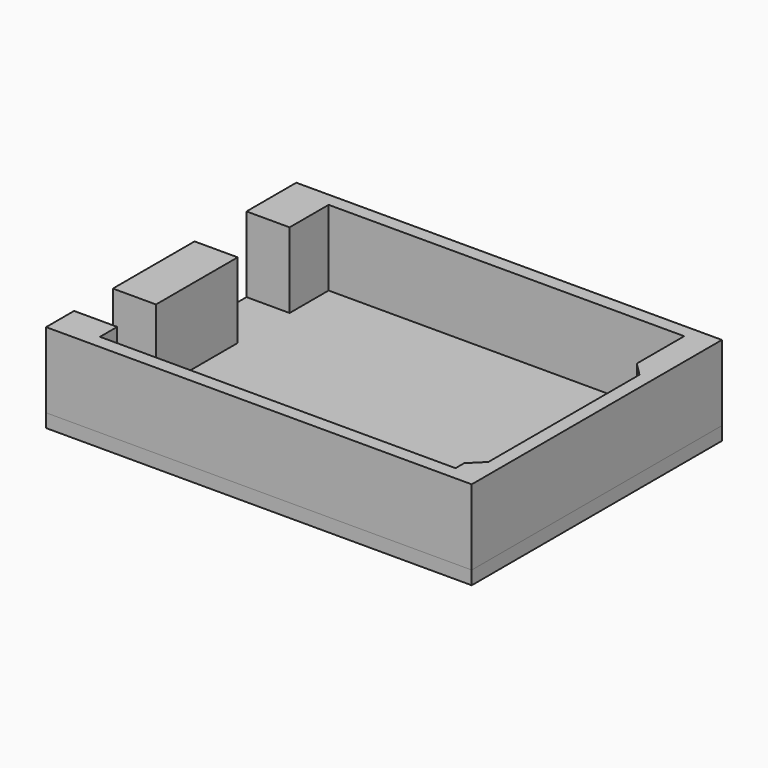
from build123d import *

# Parameters (mm, degrees)
F1_DEPTH = 14
F0_W     = 8
F0_H     = 18.95
F0_H_2   = 9
F0_H_3   = 12.05
F2_DEPTH = 2.5


with BuildPart() as f1:
    # F0 (on Top) → F1 (new body)
    with BuildSketch(Plane.XY):
        Polygon((-51.1712852555, 17.5374228269), (-51.1712852555, 26.5874228269), (14.8287147445, 26.5874228269), (17.3287147445, 26.5874228269), (17.3287147445, 13.0874228269), (17.3287147445, -21.9625771731), (17.3287147445, -26.4625771731), (14.8287147445, -26.4625771731), (-51.1712852555, -26.4625771731), (-51.1712852555, -22.4625771731), (-59.1712852555, -22.4625771731), (-59.1712852555, -28.9625771731), (19.8287147445, -28.9625771731), (19.8287147445, 29.0874228269), (-59.1712852555, 29.0874228269), (-59.1712852555, 17.5374228269), align=None)
        Polygon((17.3287147445, 26.5874228269), (14.8287147445, 26.5874228269), (14.8287147445, 15.5874228269), (17.3287147445, 13.0874228269), align=None)
        Polygon((17.3287147445, -21.9625771731), (14.8287147445, -24.4625771731), (14.8287147445, -26.4625771731), (17.3287147445, -26.4625771731), align=None)
    extrude(amount=F1_DEPTH)


with BuildPart() as f1b:
    # F0 (on Top) → F1, piece 2 (new body)
    with BuildSketch(Plane.XY):
        with Locations((-55.1712852555, -3.9875771731)):
            Rectangle(F0_W, F0_H)
    extrude(amount=F1_DEPTH)


with BuildPart() as f2:
    # F0 (on Top) → F2 (new body)
    with BuildSketch(Plane.XY):
        with BuildLine():
            Line((14.8287147445, 26.5874228269), (-51.1712852555, 26.5874228269))
            Line((-51.1712852555, 26.5874228269), (-51.1712852555, 17.5374228269))
            ThreePointArc((-51.1712852555, 17.5374228269), (-48.6712852555, 20.0374228269), (-46.1712852555, 17.5374228269))
            ThreePointArc((-46.1712852555, 17.5374228269), (-46.9035183025, 15.7696558739), (-48.6712852555, 15.0374228269))
            Line((-48.6712852555, 15.0374228269), (-48.6712852555, 7.9874228269))
            ThreePointArc((-48.6712852555, 7.9874228269), (-46.9035183025, 7.2551897799), (-46.1712852555, 5.4874228269))
            ThreePointArc((-46.1712852555, 5.4874228269), (-48.6712852555, 2.9874228269), (-51.1712852555, 5.4874228269))
            Line((-51.1712852555, 5.4874228269), (-51.1712852555, -13.4625771731))
            Line((-51.1712852555, -13.4625771731), (-51.1712852555, -22.4625771731))
            Line((-51.1712852555, -22.4625771731), (-51.1712852555, -26.4625771731))
            Line((-51.1712852555, -26.4625771731), (14.8287147445, -26.4625771731))
            Line((14.8287147445, -26.4625771731), (14.8287147445, -24.4625771731))
            Line((14.8287147445, -24.4625771731), (14.8287147445, 15.5874228269))
            Line((14.8287147445, 15.5874228269), (14.8287147445, 26.5874228269))
        make_face()
        with Locations((-55.1712852555, -17.9625771731)):
            Rectangle(F0_W, F0_H_2)
        Polygon((-51.1712852555, 17.5374228269), (-51.1712852555, 26.5874228269), (14.8287147445, 26.5874228269), (17.3287147445, 26.5874228269), (17.3287147445, 13.0874228269), (17.3287147445, -21.9625771731), (17.3287147445, -26.4625771731), (14.8287147445, -26.4625771731), (-51.1712852555, -26.4625771731), (-51.1712852555, -22.4625771731), (-59.1712852555, -22.4625771731), (-59.1712852555, -28.9625771731), (19.8287147445, -28.9625771731), (19.8287147445, 29.0874228269), (-59.1712852555, 29.0874228269), (-59.1712852555, 17.5374228269), align=None)
        with Locations((-55.1712852555, -3.9875771731)):
            Rectangle(F0_W, F0_H)
        with Locations((-55.1712852555, 11.5124228269)):
            Rectangle(F0_W, F0_H_3)
        Polygon((17.3287147445, 13.0874228269), (14.8287147445, 15.5874228269), (14.8287147445, -24.4625771731), (17.3287147445, -21.9625771731), align=None)
        Polygon((17.3287147445, -21.9625771731), (14.8287147445, -24.4625771731), (14.8287147445, -26.4625771731), (17.3287147445, -26.4625771731), align=None)
        Polygon((17.3287147445, 26.5874228269), (14.8287147445, 26.5874228269), (14.8287147445, 15.5874228269), (17.3287147445, 13.0874228269), align=None)
        with BuildLine():
            ThreePointArc((-46.1712852555, 17.5374228269), (-48.6712852555, 20.0374228269), (-51.1712852555, 17.5374228269))
            Line((-51.1712852555, 17.5374228269), (-48.6712852555, 17.5374228269))
            Line((-48.6712852555, 17.5374228269), (-48.6712852555, 15.0374228269))
            ThreePointArc((-48.6712852555, 15.0374228269), (-46.9035183025, 15.7696558739), (-46.1712852555, 17.5374228269))
        make_face()
        with BuildLine():
            Line((-48.6712852555, 17.5374228269), (-51.1712852555, 17.5374228269))
            ThreePointArc((-51.1712852555, 17.5374228269), (-50.4390522084, 15.7696558739), (-48.6712852555, 15.0374228269))
            Line((-48.6712852555, 15.0374228269), (-48.6712852555, 17.5374228269))
        make_face()
        with BuildLine():
            ThreePointArc((-48.6712852555, 15.0374228269), (-50.4390522084, 15.7696558739), (-51.1712852555, 17.5374228269))
            Line((-51.1712852555, 17.5374228269), (-51.1712852555, 5.4874228269))
            ThreePointArc((-51.1712852555, 5.4874228269), (-50.4390522084, 7.2551897799), (-48.6712852555, 7.9874228269))
            Line((-48.6712852555, 7.9874228269), (-48.6712852555, 15.0374228269))
        make_face()
        with BuildLine():
            ThreePointArc((-48.6712852555, 7.9874228269), (-50.4390522084, 7.2551897799), (-51.1712852555, 5.4874228269))
            Line((-51.1712852555, 5.4874228269), (-48.6712852555, 5.4874228269))
            Line((-48.6712852555, 5.4874228269), (-48.6712852555, 7.9874228269))
        make_face()
        with BuildLine():
            Line((-48.6712852555, 5.4874228269), (-51.1712852555, 5.4874228269))
            ThreePointArc((-51.1712852555, 5.4874228269), (-48.6712852555, 2.9874228269), (-46.1712852555, 5.4874228269))
            ThreePointArc((-46.1712852555, 5.4874228269), (-46.9035183025, 7.2551897799), (-48.6712852555, 7.9874228269))
            Line((-48.6712852555, 7.9874228269), (-48.6712852555, 5.4874228269))
        make_face()
    extrude(amount=-F2_DEPTH)


solid = Compound([f1.part, f1b.part, f2.part])
